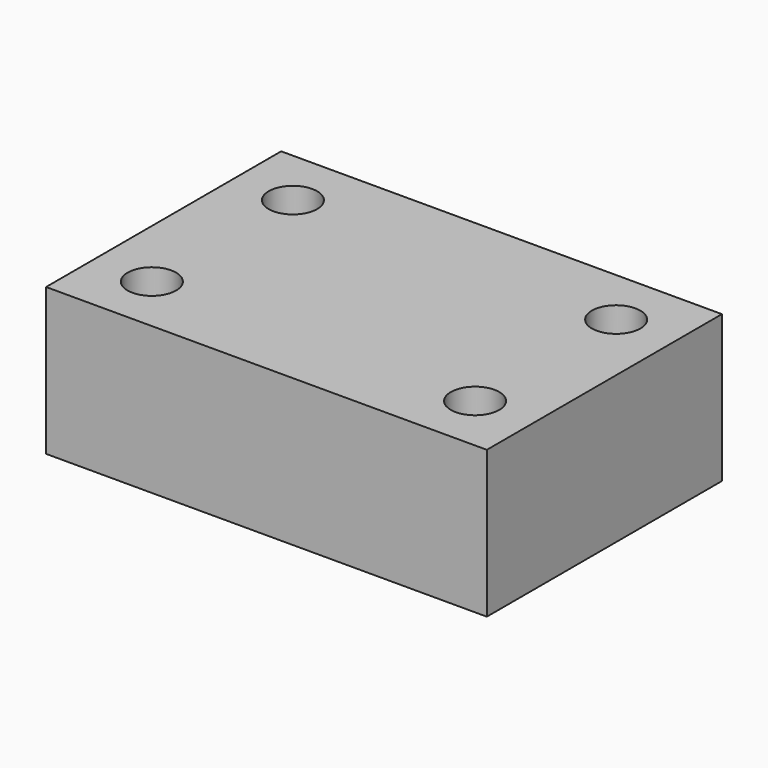
from build123d import *

# Parameters (mm, degrees)
F0_W     = 30
F0_H     = 20
F1_DEPTH = 20
F3_D     = 6.6


with BuildPart() as f1:
    # F0 (on Top) → F1 (new body)
    with BuildSketch(Plane.XY):
        Rectangle(F0_W, F0_H)
    extrude(amount=F1_DEPTH)

    # F3 (through all)
    with Locations(Plane.XY.offset(20)):
        with Locations((-7, 2)):
            Hole(F3_D / 2)

    # F4: F1 across face


with BuildPart() as f1_1:
    add(f1.part)
    add(f1.part.mirror(Plane(origin=(15, 0, 10), x_dir=(0, 1, 0), z_dir=(1, 0, 0))))

    # F5: F1 across face


with BuildPart() as f1_2:
    add(f1_1.part)
    add(f1_1.part.mirror(Plane(origin=(15, -10, 10), x_dir=(1, 0, 0), z_dir=(0, -1, 0))))


solid = f1_2.part
